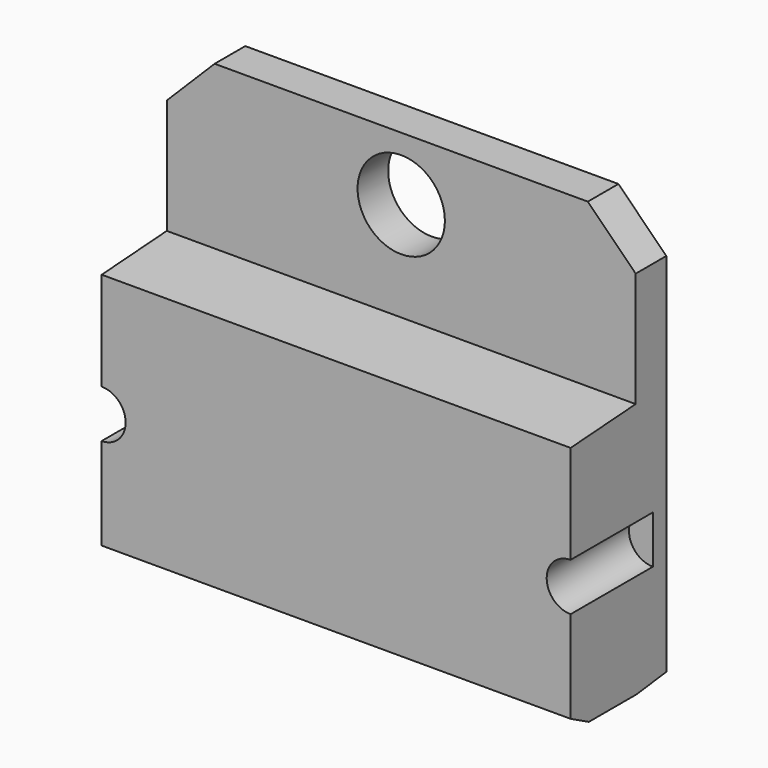
from build123d import *

# Parameters (mm, degrees)
CYLINDER001_R          = 1
CYLINDER001_DEPTH      = 10
CYLINDER001_ROLL_ANGLE = 90
ARRAY_X_COUNT          = 2
ARRAY_X_PITCH          = 19.6
BOX_W                  = 19.6
BOX_H                  = 5
BOX_DEPTH              = 10.7
CYLINDER_R             = 1.825
CYLINDER_DEPTH         = 10
CYLINDER_ROLL_ANGLE    = 90
BOX001_W               = 19.6
BOX001_H               = 1.6
BOX001_DEPTH           = 17.5
CHAMFER_SIZE           = 2
POCKET_DEPTH           = 50


with BuildPart() as array:
    # Cylinder001 → Cylinder001 (new body)
    with BuildSketch(Plane.XY):
        Circle(CYLINDER001_R)
    extrude(amount=CYLINDER001_DEPTH)


with BuildPart() as array_1:
    # Cylinder001 roll: moved
    add(array.part.rotate(Axis((0, 0, 0), (1, 0, 0)), CYLINDER001_ROLL_ANGLE))


with BuildPart() as array_2:
    # Cylinder001 placement: moved
    add(array_1.part.moved(Location((0, 4.3, 5.35))))

    # Array X: Array ×2


with BuildPart() as array_3:
    add(array_2.part)
    with Locations(*[(i * ARRAY_X_PITCH, 0, 0) for i in range(1, ARRAY_X_COUNT)]):
        add(array_2.part)


with BuildPart() as cubo:
    # Box → Box (new body)
    with BuildSketch(Plane.XY):
        with Locations((9.8, 2.5)):
            Rectangle(BOX_W, BOX_H)
    extrude(amount=BOX_DEPTH)


with BuildPart() as cilindro:
    # Cylinder → Cylinder (new body)
    with BuildSketch(Plane.XY):
        Circle(CYLINDER_R)
    extrude(amount=CYLINDER_DEPTH)


with BuildPart() as cilindro_1:
    # Cylinder roll: moved
    add(cilindro.part.rotate(Axis((0, 0, 0), (1, 0, 0)), CYLINDER_ROLL_ANGLE))


with BuildPart() as cilindro_2:
    # Cylinder placement: moved
    add(cilindro_1.part.moved(Location((9.8, 10, 14.85))))


with BuildPart() as obj1:
    # Box001 → Box001 (new body)
    with BuildSketch(Plane(origin=(0, 3.4, 0), x_dir=(1, 0, 0), z_dir=(0, 0, 1))):
        with Locations((9.8, 0.8)):
            Rectangle(BOX001_W, BOX001_H)
    extrude(amount=BOX001_DEPTH)

    # Chamfer
    chamfer_edges = [obj1.edges().sort_by_distance(p)[0] for p in [
        (0, 4.2, 17.5),
        (19.6, 4.2, 17.5),
    ]]
    chamfer(chamfer_edges, length=CHAMFER_SIZE)

    # Cut: cut Cilindro
    add(cilindro_2.part, mode=Mode.SUBTRACT)

    # Fusion: union Cubo
    add(cubo.part)

    # Sketch → Pocket (cut, symmetric)
    with BuildSketch(Plane.YZ.offset(19.6)):
        Polygon((3.400024, 10.700153), (-0.022797, 10.708087), (-0.047538, 10.466272), align=None)
        Polygon((-0.28005, 0.647481), (0.962411, -0.006446), (-0.389037, -0.137231), align=None)
        Polygon((3.403737, -0.006446), (5.125743, 0.21153), (5.191135, -0.377004), align=None)
    extrude(amount=POCKET_DEPTH, both=True, mode=Mode.SUBTRACT)

    # Cut001: cut Array
    add(array_3.part, mode=Mode.SUBTRACT)


with BuildPart() as obj1_1:
    # Cut001 placement: moved
    add(obj1.part.moved(Location((-2.25, 0, 4))))


solid = obj1_1.part
